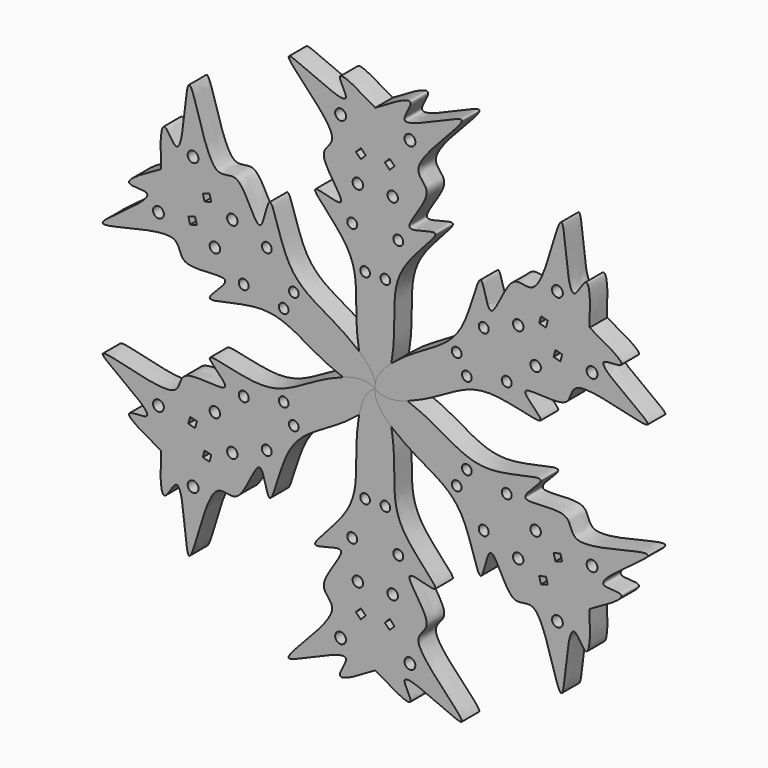
from build123d import *

# Parameters (mm, degrees)
F0_R     = 1.3298534477
F0_R_2   = 1.3583580501
F0_R_3   = 1.4338289065
F0_R_4   = 1.4876467741
F1_DEPTH = 6
F3_COUNT = 6


with BuildPart() as f1:
    # F0 (on Front) → F1 (new body)
    with BuildSketch(Plane.XZ):
        with BuildLine():
            add(Edge.make_bspline(
                [(0, 67.9636597633), (15.0736682117, 77.3778408766), (-1.8170362746, 59.4559088832), (36.9106321637, 81.8242578793), (6.1183970232, 56.3693774631), (18.1237264245, 53.2138221434), (4.0698440445, 38.5433825697), (22.2155916547, 46.3278544762), (4.4460278109, 31.4888388529), (5.7680788079, 18.2790497386), (4.3855970725, 1.7994696973), (0, 0)],
                knots=[0, 0, 0, 0, 0.0901450112, 0.2183789992, 0.3575355748, 0.4353235652, 0.5404116332, 0.6237315187, 0.7388513679, 0.86710225, 1, 1, 1, 1], degree=3))
            add(Edge.make_bspline(
                [(0, 67.9636597633), (-15.0736682117, 77.3778408766), (1.8170362746, 59.4559088832), (-36.9106321637, 81.8242578793), (-6.1183970232, 56.3693774631), (-18.1237264245, 53.2138221434), (-4.0698440445, 38.5433825697), (-22.2155916547, 46.3278544762), (-4.4460278109, 31.4888388529), (-5.7680788079, 18.2790497386), (-4.3855970725, 1.7994696973), (0, 0)],
                knots=[0, 0, 0, 0, 0.0901450112, 0.2183789992, 0.3575355748, 0.4353235652, 0.5404116332, 0.6237315187, 0.7388513679, 0.86710225, 1, 1, 1, 1], degree=3))
        make_face()
        with Locations((-2.7873816434, 27.4148378521)):
            Circle(F0_R, mode=Mode.SUBTRACT)
        with Locations((-6.3273366541, 38.0243360996)):
            Circle(F0_R_2, mode=Mode.SUBTRACT)
        with Locations((2.7873816434, 27.4148378521)):
            Circle(F0_R, mode=Mode.SUBTRACT)
        with Locations((6.3273366541, 38.0243360996)):
            Circle(F0_R_2, mode=Mode.SUBTRACT)
        with Locations((-4.7874292359, 48.0671860278)):
            Circle(F0_R_3, mode=Mode.SUBTRACT)
        Polygon((-3.9534829557, 56.9503922015), (-2.6012713924, 55.5981806382), (-3.9563508532, 54.2431011774), (-5.3085624165, 55.5953127407), align=None, mode=Mode.SUBTRACT)
        with Locations((-9.5193330199, 63.2255226374)):
            Circle(F0_R_4, mode=Mode.SUBTRACT)
        with Locations((4.7874292359, 48.0671860278)):
            Circle(F0_R_3, mode=Mode.SUBTRACT)
        Polygon((2.6012713924, 55.5981806382), (3.9534829557, 56.9503922015), (5.3085624165, 55.5953127407), (3.9563508532, 54.2431011774), align=None, mode=Mode.SUBTRACT)
        with Locations((9.5193330199, 63.2255226374)):
            Circle(F0_R_4, mode=Mode.SUBTRACT)
    extrude(amount=F1_DEPTH)


with BuildPart() as f3_1:
    # F3: instance of F1
    add(f1.part.rotate(Axis((0, -29.4215325266, 0), (0, -1, 0)), 1 * 360 / F3_COUNT))


with BuildPart() as f3_2:
    # F3: instance of F1
    add(f1.part.rotate(Axis((0, -29.4215325266, 0), (0, -1, 0)), 2 * 360 / F3_COUNT))


with BuildPart() as f3_3:
    # F3: instance of F1
    add(f1.part.rotate(Axis((0, -29.4215325266, 0), (0, -1, 0)), 3 * 360 / F3_COUNT))


with BuildPart() as f3_4:
    # F3: instance of F1
    add(f1.part.rotate(Axis((0, -29.4215325266, 0), (0, -1, 0)), 4 * 360 / F3_COUNT))


with BuildPart() as f3_5:
    # F3: instance of F1
    add(f1.part.rotate(Axis((0, -29.4215325266, 0), (0, -1, 0)), 5 * 360 / F3_COUNT))


solid = Compound([f1.part, f3_1.part, f3_2.part, f3_3.part, f3_4.part, f3_5.part])
